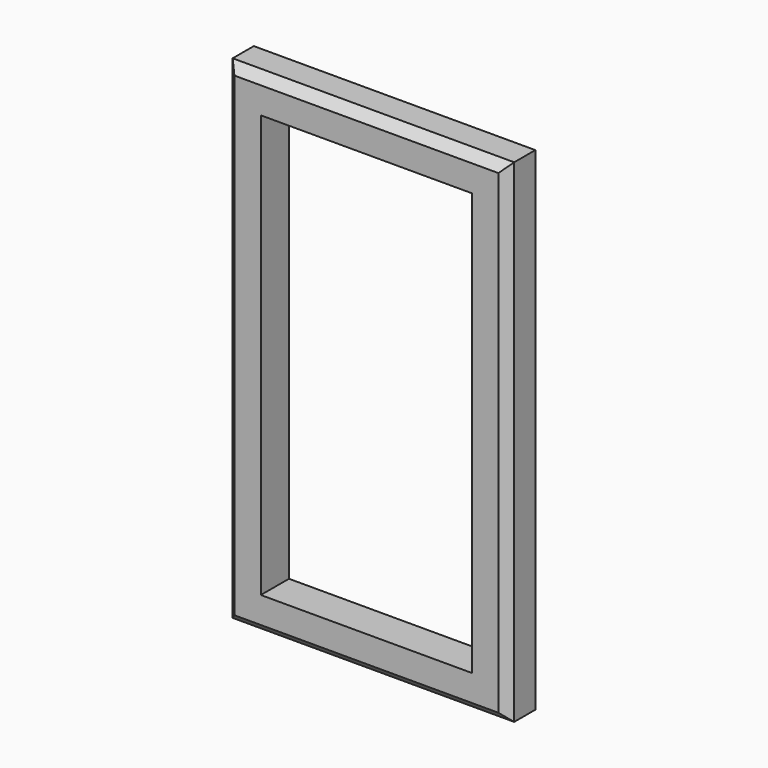
from build123d import *

# Parameters (mm, degrees)
F0_W     = 406.4
F0_H     = 711.2
F0_W_2   = 304.8
F0_H_2   = 609.6
F1_DEPTH = 50.8
F3_SIZE  = 12.7


with BuildPart() as f1:
    # F0 (on Front) → F1 (new body)
    with BuildSketch(Plane.XZ):
        Rectangle(F0_W, F0_H)
        Rectangle(F0_W_2, F0_H_2, mode=Mode.SUBTRACT)
    extrude(amount=F1_DEPTH)

    # F3
    f3_edges = [f1.edges().sort_by_distance(p)[0] for p in [
        (203.2, -50.8, 0),
        (0, -50.8, 355.6),
        (-203.2, -50.8, 0),
        (0, -50.8, -355.6),
    ]]
    chamfer(f3_edges, length=F3_SIZE)


solid = f1.part
